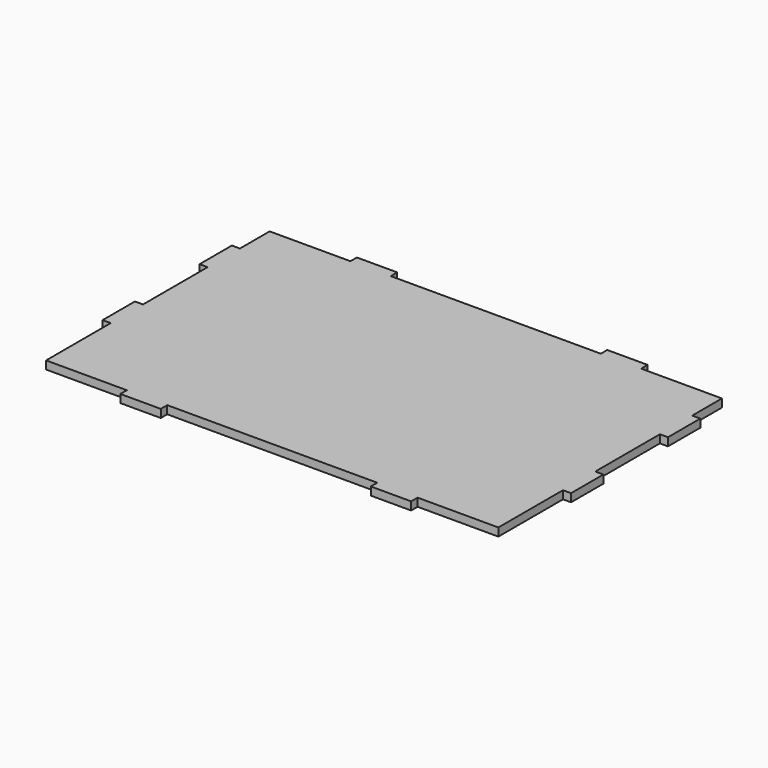
from build123d import *

# Parameters (mm, degrees)
PAD_DEPTH = 10


with BuildPart() as part:
    # Sketch → Pad (new body)
    with BuildSketch(Plane.XY):
        Polygon((560, 300), (570, 300), (570, 250), (560, 250), (560, 150), (570, 150), (570, 100), (560, 100), (560, 0), (460, 0), (460, -10), (410, -10), (410, 0), (150, 0), (150, -10), (100, -10), (100, 0), (0, 0), (0, 100), (-10, 100), (-10, 150), (0, 150), (0, 250), (-10, 250), (-10, 300), (0, 300), (0, 345.986), (100, 345.986), (100, 355.986), (150, 355.986), (150, 345.986), (410, 345.986), (410, 355.986), (460, 355.986), (460, 345.986), (560, 345.986), align=None)
    extrude(amount=PAD_DEPTH)


solid = part.part
